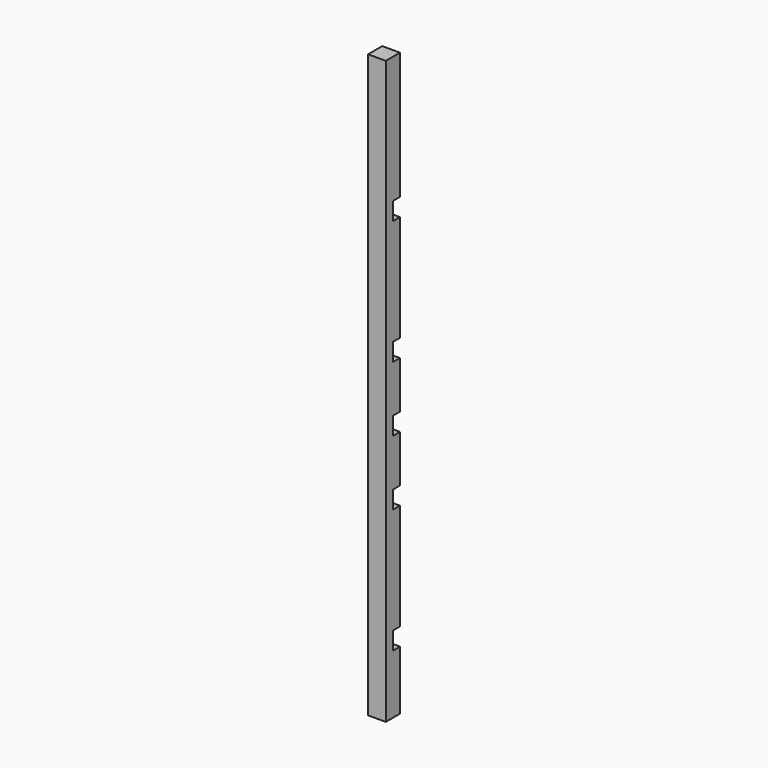
from build123d import *

# Parameters (mm, degrees)
F1_DEPTH = 19.05
F0_W     = 228.6
F0_H     = 38.1
F0_W_2   = 273.05
F0_W_3   = 101.6
F0_W_4   = 127
F2_W     = 1250.95
F2_H     = 38.1
F3_DEPTH = 19.05
F5_ANGLE = 90
F6_ANGLE = 90


with BuildPart() as f1:
    # F0 (on Top) → F1 (new body)
    with BuildSketch(Plane.XY):
        Polygon((-50.8, 0), (0, 0), (50.8, 0), (50.8, 38.1), (-50.8, 38.1), align=None)
    extrude(amount=F1_DEPTH)


with BuildPart() as f1b:
    # F0 (on Top) → F1, piece 2 (new body)
    with BuildSketch(Plane.XY):
        with Locations((203.2, 19.05)):
            Rectangle(F0_W, F0_H)
    extrude(amount=F1_DEPTH)


with BuildPart() as f1c:
    # F0 (on Top) → F1, piece 3 (new body)
    with BuildSketch(Plane.XY):
        with Locations((492.125, 19.05)):
            Rectangle(F0_W_2, F0_H)
    extrude(amount=F1_DEPTH)


with BuildPart() as f1d:
    # F0 (on Top) → F1, piece 4 (new body)
    with BuildSketch(Plane.XY):
        with Locations((-139.7, 19.05)):
            Rectangle(F0_W_3, F0_H)
    extrude(amount=F1_DEPTH)


with BuildPart() as f1e:
    # F0 (on Top) → F1, piece 5 (new body)
    with BuildSketch(Plane.XY):
        with Locations((-342.9, 19.05)):
            Rectangle(F0_W, F0_H)
    extrude(amount=F1_DEPTH)


with BuildPart() as f1f:
    # F0 (on Top) → F1, piece 6 (new body)
    with BuildSketch(Plane.XY):
        with Locations((-558.8, 19.05)):
            Rectangle(F0_W_4, F0_H)
    extrude(amount=F1_DEPTH)


with BuildPart() as f3:
    # F2 (on face) → F3 (new body)
    with BuildSketch(Plane.XY.offset(19.05)):
        with Locations((3.175, 19.05)):
            Rectangle(F2_W, F2_H)
    extrude(amount=F3_DEPTH)

    # F4: union F1, F1b, F1c, F1d, F1e, F1f
    add(f1.part)
    add(f1b.part)
    add(f1c.part)
    add(f1d.part)
    add(f1e.part)
    add(f1f.part)


with BuildPart() as f3_1:
    # F5: moved
    add(f3.part.rotate(Axis((-622.3, 19.05, 38.1), (0, -1, 0)), F5_ANGLE))


with BuildPart() as f3_2:
    # F6: moved
    add(f3_1.part.rotate(Axis((-622.3, 38.1, 663.575), (0, 0, 1)), F6_ANGLE))


solid = f3_2.part
